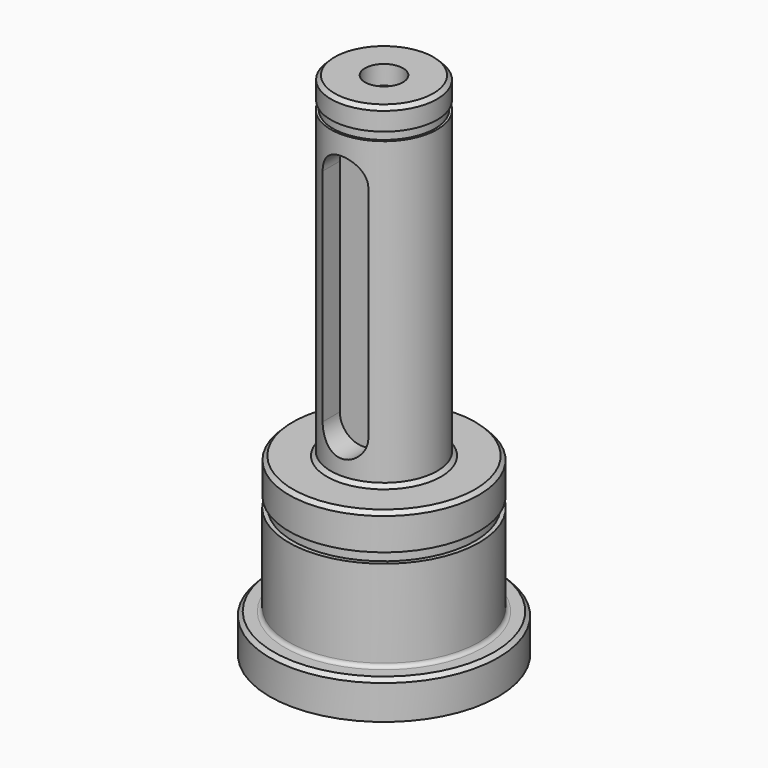
from build123d import *

# Parameters (mm, degrees)
F2_SIZE  = 0.5
F3_R     = 0.5
F6_DEPTH = 3.5


with BuildPart() as f1:
    # F0 (on Front) → F1 (revolve)
    with BuildSketch(Plane.XZ):
        Polygon((0, 15), (0, 0), (0, -42), (2.5, -44.5), (2.5, -47), (15, -47), (15, -45), (15, -42), (12.5, -42), (12.5, -30), (11.95, -30), (11.95, -28.7), (12.475, -28.7), (12.475, -24), (7, -24), (7, 16), (6.7, 16), (6.7, 17.1), (6.975, 17.1), (6.975, 20), (2.5, 20), (2.5, 17.5), align=None)
    revolve(axis=Axis((0, 0, 55.465363), (0, 0, 1)))

    # F2
    f2_edges = [f1.edges().sort_by_distance(p)[0] for p in [
        (-6.975, 0, 20),
        (-12.475, 0, -24),
        (-7, 0, -24),
        (-15, 0, -42),
    ]]
    chamfer(f2_edges, length=F2_SIZE)

    # F3
    f3_edges = [f1.edges().sort_by_distance(p)[0] for p in [
        (-12.5, 0, -42),
    ]]
    fillet(f3_edges, radius=F3_R)

    # F5 (on offset) → F6 (cut)
    with BuildSketch(Plane.XZ.offset(7)):
        with BuildLine():
            Line((3, -18.5), (3, 10.5))
            ThreePointArc((3, 10.5), (0, 13.5), (-3, 10.5))
            Line((-3, 10.5), (-3, -18.5))
            ThreePointArc((-3, -18.5), (0, -21.5), (3, -18.5))
        make_face()
    extrude(amount=-F6_DEPTH, mode=Mode.SUBTRACT)


solid = f1.part
